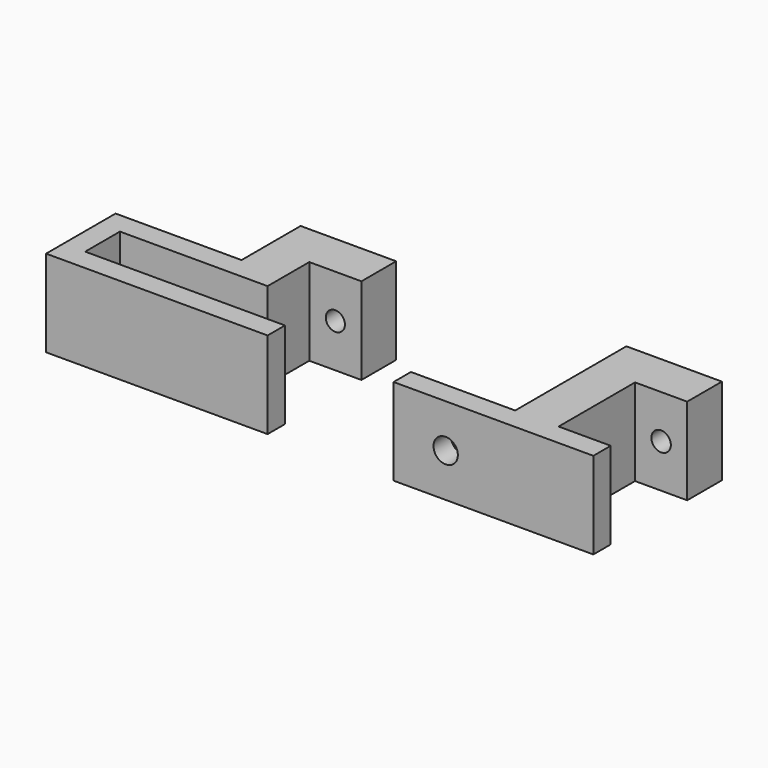
from build123d import *

# Parameters (mm, degrees)
F1_DEPTH  = 12.7
F2_R      = 1.4224
F3_DEPTH  = 25.4
F4_R      = 1.778
F5_DEPTH  = 25.4
F7_DEPTH  = 12.7
F8_R      = 1.397
F9_DEPTH  = 25.4
F10_R     = 1.397
F11_DEPTH = 25.4


with BuildPart() as f1:
    # F0 (on Top) → F1 (new body)
    with BuildSketch(Plane.XY):
        Polygon((15.24, 0), (0, 0), (0, -3.175), (21.59, -3.175), (29.21, -3.175), (29.21, 0), (21.59, 0), (21.59, 13.97), (29.21, 13.97), (29.21, 20.32), (15.24, 20.32), align=None)
    extrude(amount=F1_DEPTH)

    # F2 (on face) → F3 (cut)
    with BuildSketch(Plane.XZ.offset(-13.97)):
        with Locations((25.4, 6.35)):
            Circle(F2_R)
    extrude(amount=-F3_DEPTH, mode=Mode.SUBTRACT)

    # F4 (on face) → F5 (cut)
    with BuildSketch(Plane(origin=(0, 0, 0), x_dir=(-1, 0, 0), z_dir=(0, 1, 0))):
        with Locations((-7.62, 6.35)):
            Circle(F4_R)
    extrude(amount=-F5_DEPTH, mode=Mode.SUBTRACT)


with BuildPart() as f7:
    # F6 (on Top) → F7 (new body)
    with BuildSketch(Plane.XY):
        Polygon((-32.385, 0), (-47.625, 0), (-47.625, 6.35), (-32.385, 6.35), (-26.035, 6.35), (-26.035, 13.97), (-18.415, 13.97), (-18.415, 20.32), (-32.385, 20.32), (-32.385, 9.525), (-47.625, 9.525), (-50.8, 9.525), (-50.8, -3.175), (-47.625, -3.175), (-32.385, -3.175), (-18.415, -3.175), (-18.415, 0), align=None)
    extrude(amount=F7_DEPTH)

    # F8 (on face) → F9 (cut)
    with BuildSketch(Plane.XZ.offset(-13.97)):
        with Locations((-22.225, 6.35)):
            Circle(F8_R)
    extrude(amount=-F9_DEPTH, mode=Mode.SUBTRACT)

    # F10 (on face) → F11 (cut)
    with BuildSketch(Plane.XZ.offset(-6.35)):
        with Locations((-40.005, 6.35)):
            Circle(F10_R)
    extrude(amount=-F11_DEPTH, mode=Mode.SUBTRACT)


solid = Compound([f1.part, f7.part])
